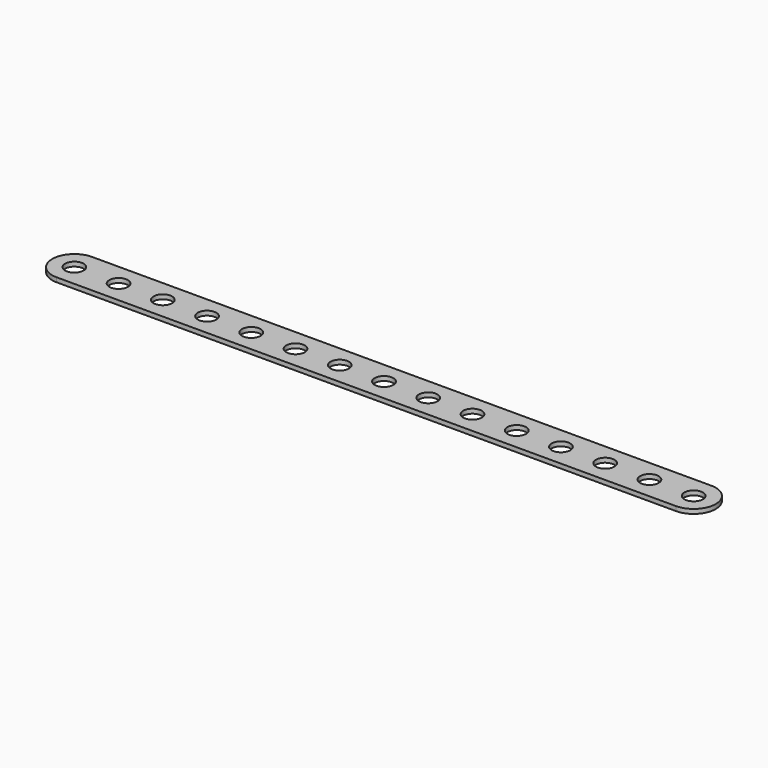
from build123d import *

# Parameters (mm, degrees)
SKETCH_R  = 2.1
PAD_DEPTH = 1


with BuildPart() as part:
    # Sketch → Pad (new body)
    with BuildSketch(Plane.XY):
        with BuildLine():
            ThreePointArc((0, 5), (-5, 0), (0, -5))
            Line((0, -5), (140, -5))
            ThreePointArc((140, -5), (145, 0), (140, 5))
            Line((0, 5), (140, 5))
        make_face()
        Circle(SKETCH_R, mode=Mode.SUBTRACT)
        with Locations((10, 0)):
            Circle(SKETCH_R, mode=Mode.SUBTRACT)
        with Locations((20, 0)):
            Circle(SKETCH_R, mode=Mode.SUBTRACT)
        with Locations((30, 0)):
            Circle(SKETCH_R, mode=Mode.SUBTRACT)
        with Locations((40, 0)):
            Circle(SKETCH_R, mode=Mode.SUBTRACT)
        with Locations((50, 0)):
            Circle(SKETCH_R, mode=Mode.SUBTRACT)
        with Locations((60, 0)):
            Circle(SKETCH_R, mode=Mode.SUBTRACT)
        with Locations((70, 0)):
            Circle(SKETCH_R, mode=Mode.SUBTRACT)
        with Locations((80, 0)):
            Circle(SKETCH_R, mode=Mode.SUBTRACT)
        with Locations((90, 0)):
            Circle(SKETCH_R, mode=Mode.SUBTRACT)
        with Locations((100, 0)):
            Circle(SKETCH_R, mode=Mode.SUBTRACT)
        with Locations((110, 0)):
            Circle(SKETCH_R, mode=Mode.SUBTRACT)
        with Locations((120, 0)):
            Circle(SKETCH_R, mode=Mode.SUBTRACT)
        with Locations((130, 0)):
            Circle(SKETCH_R, mode=Mode.SUBTRACT)
        with Locations((140, 0)):
            Circle(SKETCH_R, mode=Mode.SUBTRACT)
    extrude(amount=PAD_DEPTH)


solid = part.part
